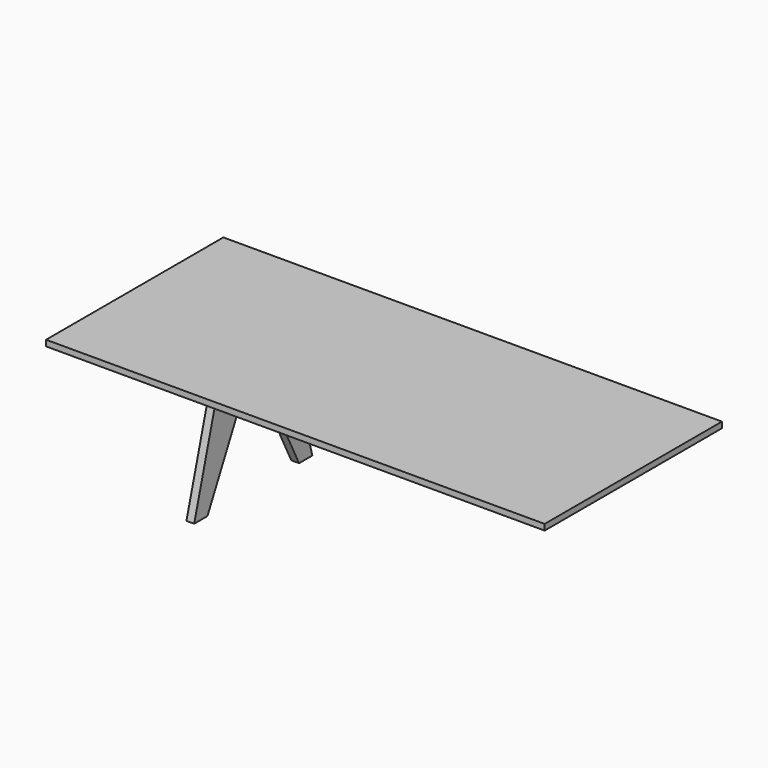
from build123d import *

# Parameters (mm, degrees)
F0_W      = 2700
F0_H      = 1200
F1_DEPTH  = 32
F2_DEPTH  = 5
F3_DEPTH  = 5
F5_W      = 42
F5_H      = 70
F6_DEPTH  = 42
F7_R      = 7
F7_R_2    = 6.25
F8_DEPTH  = 18
F9_DEPTH  = 80
F10_R     = 9
F11_DEPTH = 23
F13_DEPTH = 21


with BuildPart() as f1:
    # F0 (on Top) → F1 (new body)
    with BuildSketch(Plane.XY):
        Rectangle(F0_W, F0_H)
        with BuildLine():
            Line((-1197, 575), (-1148, 575))
            ThreePointArc((-1148, 575), (-1145.8786796564, 574.1213203436), (-1145, 572))
            Line((-1145, 572), (-1145, -572))
            ThreePointArc((-1145, -572), (-1145.8786796564, -574.1213203436), (-1148, -575))
            Line((-1148, -575), (-1197, -575))
            ThreePointArc((-1197, -575), (-1199.1213203436, -574.1213203436), (-1200, -572))
            Line((-1200, -572), (-1200, 572))
            ThreePointArc((-1200, 572), (-1199.1213203436, 574.1213203436), (-1197, 575))
        make_face(mode=Mode.SUBTRACT)
        with BuildLine():
            Line((1197, -575), (1148, -575))
            ThreePointArc((1148, -575), (1145.8786796564, -574.1213203436), (1145, -572))
            Line((1145, -572), (1145, 572))
            ThreePointArc((1145, 572), (1145.8786796564, 574.1213203436), (1148, 575))
            Line((1148, 575), (1197, 575))
            ThreePointArc((1197, 575), (1199.1213203436, 574.1213203436), (1200, 572))
            Line((1200, 572), (1200, -572))
            ThreePointArc((1200, -572), (1199.1213203436, -574.1213203436), (1197, -575))
        make_face(mode=Mode.SUBTRACT)
        with BuildLine():
            ThreePointArc((-1145, 572), (-1145.8786796564, 574.1213203436), (-1148, 575))
            Line((-1148, 575), (-1197, 575))
            ThreePointArc((-1197, 575), (-1199.1213203436, 574.1213203436), (-1200, 572))
            Line((-1200, 572), (-1200, -572))
            ThreePointArc((-1200, -572), (-1199.1213203436, -574.1213203436), (-1197, -575))
            Line((-1197, -575), (-1148, -575))
            ThreePointArc((-1148, -575), (-1145.8786796564, -574.1213203436), (-1145, -572))
            Line((-1145, -572), (-1145, 572))
        make_face()
        with BuildLine():
            ThreePointArc((-1148, 572.5), (-1147.6464466094, 572.3535533906), (-1147.5, 572))
            Line((-1147.5, 572), (-1147.5, -572))
            ThreePointArc((-1147.5, -572), (-1147.6464466094, -572.3535533906), (-1148, -572.5))
            Line((-1148, -572.5), (-1197, -572.5))
            ThreePointArc((-1197, -572.5), (-1197.3535533906, -572.3535533906), (-1197.5, -572))
            Line((-1197.5, -572), (-1197.5, 572))
            ThreePointArc((-1197.5, 572), (-1197.3535533906, 572.3535533906), (-1197, 572.5))
            Line((-1197, 572.5), (-1148, 572.5))
        make_face(mode=Mode.SUBTRACT)
        with BuildLine():
            ThreePointArc((1145, -572), (1145.8786796564, -574.1213203436), (1148, -575))
            Line((1148, -575), (1197, -575))
            ThreePointArc((1197, -575), (1199.1213203436, -574.1213203436), (1200, -572))
            Line((1200, -572), (1200, 572))
            ThreePointArc((1200, 572), (1199.1213203436, 574.1213203436), (1197, 575))
            Line((1197, 575), (1148, 575))
            ThreePointArc((1148, 575), (1145.8786796564, 574.1213203436), (1145, 572))
            Line((1145, 572), (1145, -572))
        make_face()
        with BuildLine():
            Line((-1147.5, -572), (-1147.5, 572))
            ThreePointArc((-1147.5, 572), (-1147.6464466094, 572.3535533906), (-1148, 572.5))
            Line((-1148, 572.5), (-1197, 572.5))
            ThreePointArc((-1197, 572.5), (-1197.3535533906, 572.3535533906), (-1197.5, 572))
            Line((-1197.5, 572), (-1197.5, -572))
            ThreePointArc((-1197.5, -572), (-1197.3535533906, -572.3535533906), (-1197, -572.5))
            Line((-1197, -572.5), (-1148, -572.5))
            ThreePointArc((-1148, -572.5), (-1147.6464466094, -572.3535533906), (-1147.5, -572))
        make_face()
    extrude(amount=F1_DEPTH)

    # F0 (on Top) → F2 (cut)
    with BuildSketch(Plane.XY):
        with BuildLine():
            ThreePointArc((-1145, 572), (-1145.8786796564, 574.1213203436), (-1148, 575))
            Line((-1148, 575), (-1197, 575))
            ThreePointArc((-1197, 575), (-1199.1213203436, 574.1213203436), (-1200, 572))
            Line((-1200, 572), (-1200, -572))
            ThreePointArc((-1200, -572), (-1199.1213203436, -574.1213203436), (-1197, -575))
            Line((-1197, -575), (-1148, -575))
            ThreePointArc((-1148, -575), (-1145.8786796564, -574.1213203436), (-1145, -572))
            Line((-1145, -572), (-1145, 572))
        make_face()
        with BuildLine():
            ThreePointArc((-1148, 572.5), (-1147.6464466094, 572.3535533906), (-1147.5, 572))
            Line((-1147.5, 572), (-1147.5, -572))
            ThreePointArc((-1147.5, -572), (-1147.6464466094, -572.3535533906), (-1148, -572.5))
            Line((-1148, -572.5), (-1197, -572.5))
            ThreePointArc((-1197, -572.5), (-1197.3535533906, -572.3535533906), (-1197.5, -572))
            Line((-1197.5, -572), (-1197.5, 572))
            ThreePointArc((-1197.5, 572), (-1197.3535533906, 572.3535533906), (-1197, 572.5))
            Line((-1197, 572.5), (-1148, 572.5))
        make_face(mode=Mode.SUBTRACT)
        with BuildLine():
            ThreePointArc((1145, -572), (1145.8786796564, -574.1213203436), (1148, -575))
            Line((1148, -575), (1197, -575))
            ThreePointArc((1197, -575), (1199.1213203436, -574.1213203436), (1200, -572))
            Line((1200, -572), (1200, 572))
            ThreePointArc((1200, 572), (1199.1213203436, 574.1213203436), (1197, 575))
            Line((1197, 575), (1148, 575))
            ThreePointArc((1148, 575), (1145.8786796564, 574.1213203436), (1145, 572))
            Line((1145, 572), (1145, -572))
        make_face()
        with BuildLine():
            Line((-1147.5, -572), (-1147.5, 572))
            ThreePointArc((-1147.5, 572), (-1147.6464466094, 572.3535533906), (-1148, 572.5))
            Line((-1148, 572.5), (-1197, 572.5))
            ThreePointArc((-1197, 572.5), (-1197.3535533906, 572.3535533906), (-1197.5, 572))
            Line((-1197.5, 572), (-1197.5, -572))
            ThreePointArc((-1197.5, -572), (-1197.3535533906, -572.3535533906), (-1197, -572.5))
            Line((-1197, -572.5), (-1148, -572.5))
            ThreePointArc((-1148, -572.5), (-1147.6464466094, -572.3535533906), (-1147.5, -572))
        make_face()
    extrude(amount=F2_DEPTH, mode=Mode.SUBTRACT)

    # F7 (on face) → F8 (cut)
    with BuildSketch(Plane.XY):
        with Locations((-729, 110.5)):
            Circle(F7_R)
        with Locations((-729, 110.5)):
            Circle(F7_R_2, mode=Mode.SUBTRACT)
        with Locations((-729, 110.5)):
            Circle(F7_R_2)
        with Locations((-729, -110.5)):
            Circle(F7_R)
        with Locations((-729, -110.5)):
            Circle(F7_R_2, mode=Mode.SUBTRACT)
        with Locations((-729, -110.5)):
            Circle(F7_R_2)
        with Locations((729, -110.5)):
            Circle(F7_R)
        with Locations((729, 110.5)):
            Circle(F7_R)
    extrude(amount=F8_DEPTH, mode=Mode.SUBTRACT)


with BuildPart() as f3:
    # F0 (on Top) → F3 (new body)
    with BuildSketch(Plane.XY):
        with BuildLine():
            Line((-1147.5, -572), (-1147.5, 572))
            ThreePointArc((-1147.5, 572), (-1147.6464466094, 572.3535533906), (-1148, 572.5))
            Line((-1148, 572.5), (-1197, 572.5))
            ThreePointArc((-1197, 572.5), (-1197.3535533906, 572.3535533906), (-1197.5, 572))
            Line((-1197.5, 572), (-1197.5, -572))
            ThreePointArc((-1197.5, -572), (-1197.3535533906, -572.3535533906), (-1197, -572.5))
            Line((-1197, -572.5), (-1148, -572.5))
            ThreePointArc((-1148, -572.5), (-1147.6464466094, -572.3535533906), (-1147.5, -572))
        make_face()
    extrude(amount=F3_DEPTH)


with BuildPart() as f6:
    # F5 (on offset) → F6 (new body)
    with BuildSketch(Plane.YZ.offset(-750)):
        Polygon((-21, -70), (-21, 0), (-200, 0), (-400, -718), (-310, -718), (-65, -228), (0, -228), (65, -228), (310, -718), (400, -718), (200, 0), (21, 0), (21, -70), (21, -140), (-21, -140), align=None)
        with Locations((0, -105)):
            Rectangle(F5_W, F5_H)
    extrude(amount=F6_DEPTH)

    # F7 (on face) → F9 (cut)
    with BuildSketch(Plane.XY):
        with Locations((-729, 110.5)):
            Circle(F7_R_2)
        with Locations((-729, -110.5)):
            Circle(F7_R_2)
    extrude(amount=-F9_DEPTH, mode=Mode.SUBTRACT)

    # F10 (on face) → F11 (cut)
    with BuildSketch(Plane.YZ.offset(-708)):
        with Locations((110.5, -50)):
            Circle(F10_R)
        with Locations((-110.5, -50)):
            Circle(F10_R)
    extrude(amount=-F11_DEPTH, mode=Mode.SUBTRACT)


with BuildPart() as f13:
    # F12 (on Front) → F13 (new body, symmetric)
    with BuildSketch(Plane.XZ):
        Polygon((-750, -70), (-708, -70), (-708, -140), (0, -140), (708, -140), (708, -70), (750, -70), (750, -140), (1063.0230114445, -140), (1100, -2), (0.3708260011, -2), (-0.3708260011, -2), (-1100, -2), (-1063.0230114445, -140), (-750, -140), align=None)
    extrude(amount=F13_DEPTH, both=True)


solid = Compound([f1.part, f3.part, f6.part, f13.part])
